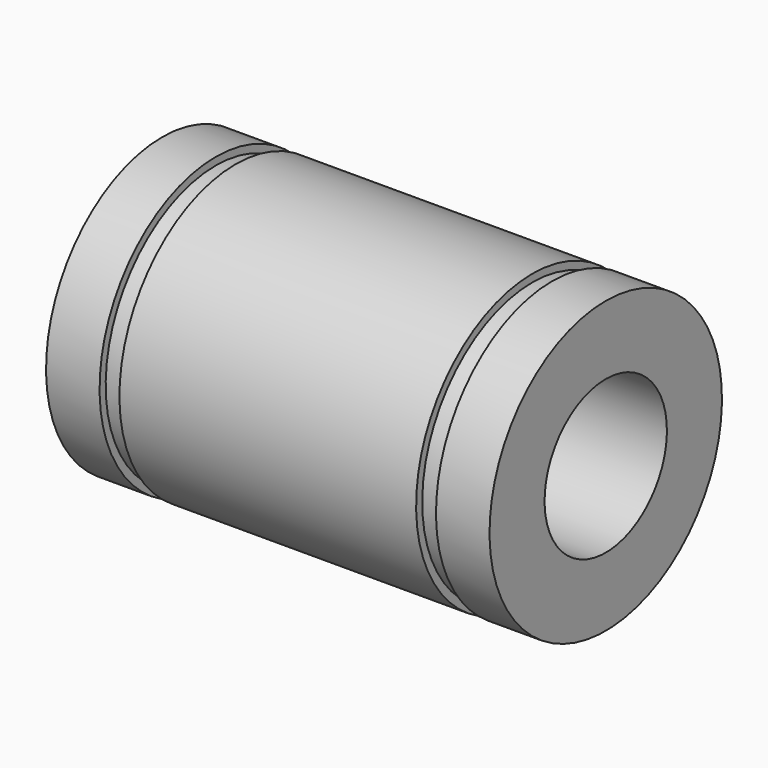
from build123d import *


with BuildPart() as part:
    # Sketch → Revolution (revolve)
    with BuildSketch(Plane.XZ):
        Polygon((-14.5, 9.5), (-11, 9.5), (-11, 9), (-9.7, 9), (-9.7, 9.5), (9.7, 9.5), (9.7, 9), (11, 9), (11, 9.5), (14.5, 9.5), (14.5, 5), (-14.5, 5), align=None)
    revolve(axis=Axis((0, 0, 0), (1, 0, 0)))


solid = part.part
